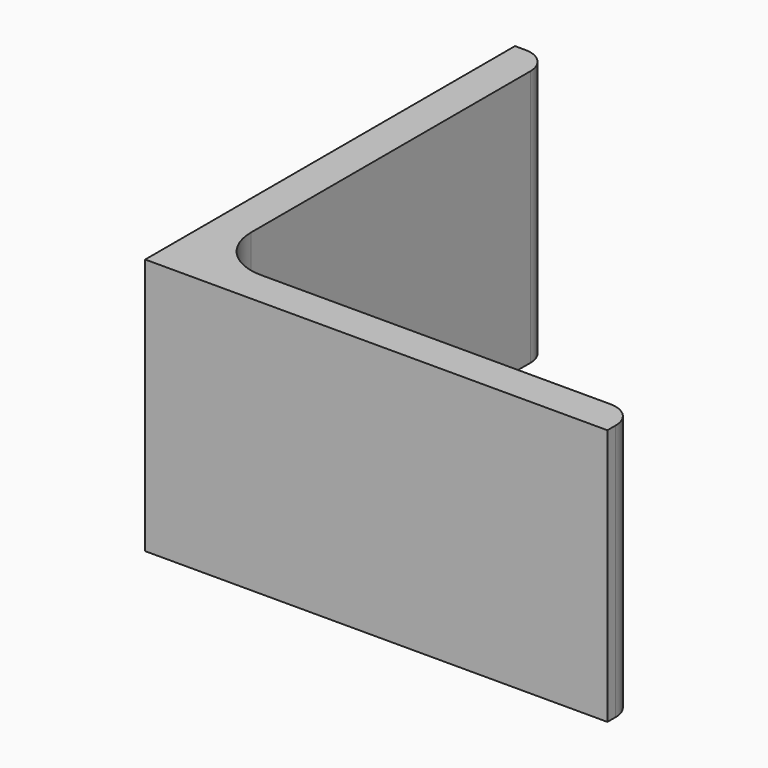
from build123d import *

# Parameters (mm, degrees)
EXTRUDE_DEPTH = 50


with BuildPart() as part:
    # Sketch → Extrude (new body)
    with BuildSketch(Plane.XY):
        with BuildLine():
            Line((0, 0), (90, 0))
            Line((90, 0), (90, 2))
            ThreePointArc((90, 2), (88.535534, 5.535534), (85, 7))
            Line((85, 7), (17, 7))
            ThreePointArc((7, 17), (9.928932, 9.928932), (17, 7))
            Line((7, 85), (7, 17))
            ThreePointArc((7, 85), (5.535534, 88.535534), (2, 90))
            Line((0, 90), (2, 90))
            Line((0, 0), (0, 90))
        make_face()
    extrude(amount=EXTRUDE_DEPTH)


solid = part.part
